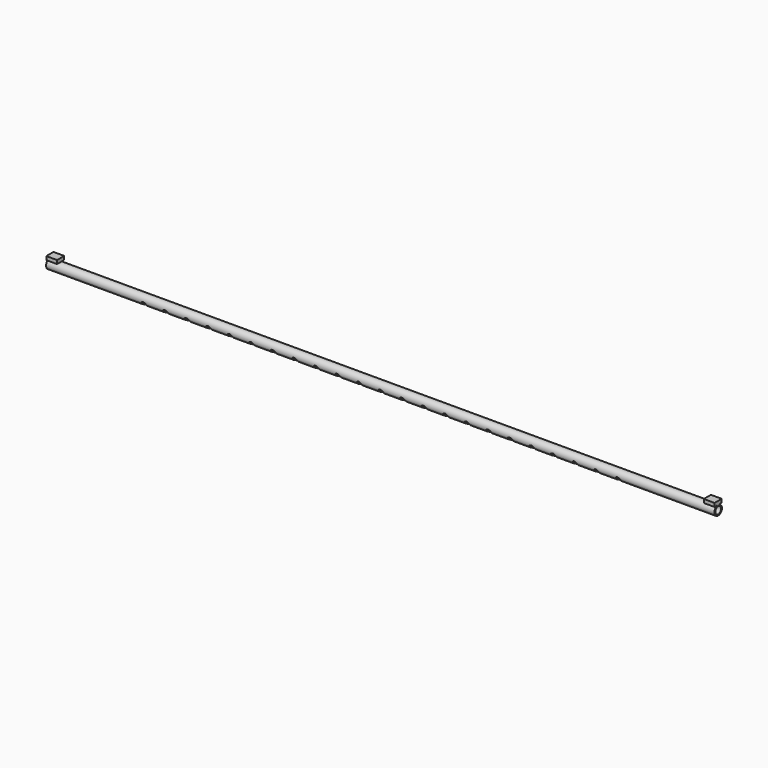
from build123d import *

# Parameters (mm, degrees)
F0_R     = 16.7005
F0_R_2   = 12.7
F1_DEPTH = 1181.1
F4_D     = 20.574
F4_DEPTH = 12.7
F6_ANGLE = 135
F7_W     = 31.75
F7_H     = 12.7
F8_DEPTH = 38.1


with BuildPart() as f1:
    # F0 (on Right) → F1 (new body, symmetric)
    with BuildSketch(Plane.YZ):
        Circle(F0_R)
        Circle(F0_R_2, mode=Mode.SUBTRACT)
    extrude(amount=F1_DEPTH, both=True)

    # F4
    with Locations(Plane.XY.offset(16.7005)):
        with Locations((-838.2, 0), (-762, 0), (-685.8, 0), (-609.6, 0), (-533.4, 0), (-457.2, 0), (-381, 0), (-304.8, 0), (-228.6, 0), (-152.4, 0), (-76.2, 0), (0, 0), (76.2, 0), (152.4, 0), (228.6, 0), (304.8, 0), (381, 0), (457.2, 0), (533.4, 0), (609.6, 0), (685.8, 0), (762, 0), (838.2, 0)):
            Hole(F4_D / 2, depth=F4_DEPTH)


with BuildPart() as f1_1:
    # F6: moved
    add(f1.part.rotate(Axis((-47.887146, 0, 0), (1, 0, 0)), F6_ANGLE))


with BuildPart() as f8:
    # F7 (on face) → F8 (new body)
    with BuildSketch(Plane.YZ.offset(1181.1)):
        with Locations((0, 23.0505)):
            Rectangle(F7_W, F7_H)
    extrude(amount=-F8_DEPTH)


with BuildPart() as f9_1:
    # F9: instance of F8
    add(f8.part.mirror(Plane.YZ))


solid = Compound([f1_1.part, f8.part, f9_1.part])
